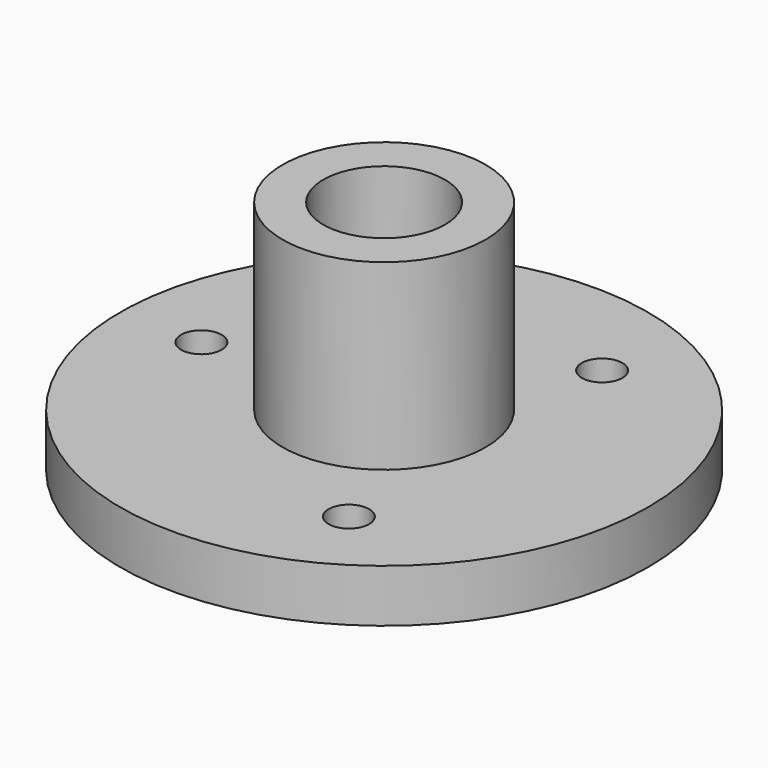
from build123d import *

# Parameters (mm, degrees)
SKETCH_R      = 65
SKETCH_R_2    = 5
PAD_DEPTH     = 13
SKETCH001_R   = 25
SKETCH001_R_2 = 15
PAD001_DEPTH  = 45


with BuildPart() as part:
    # Sketch → Pad (new body)
    with BuildSketch(Plane.XY):
        Circle(SKETCH_R)
        with Locations((22.5, 38.971143)):
            Circle(SKETCH_R_2, mode=Mode.SUBTRACT)
        with Locations((-45, 0)):
            Circle(SKETCH_R_2, mode=Mode.SUBTRACT)
        with Locations((22.5, -38.971143)):
            Circle(SKETCH_R_2, mode=Mode.SUBTRACT)
    extrude(amount=PAD_DEPTH)

    # Sketch001 (on Face6 of Pad) → Pad001 (join)
    with BuildSketch(Plane.XY.offset(13)):
        Circle(SKETCH001_R)
        Circle(SKETCH001_R_2, mode=Mode.SUBTRACT)
    extrude(amount=PAD001_DEPTH)


solid = part.part
